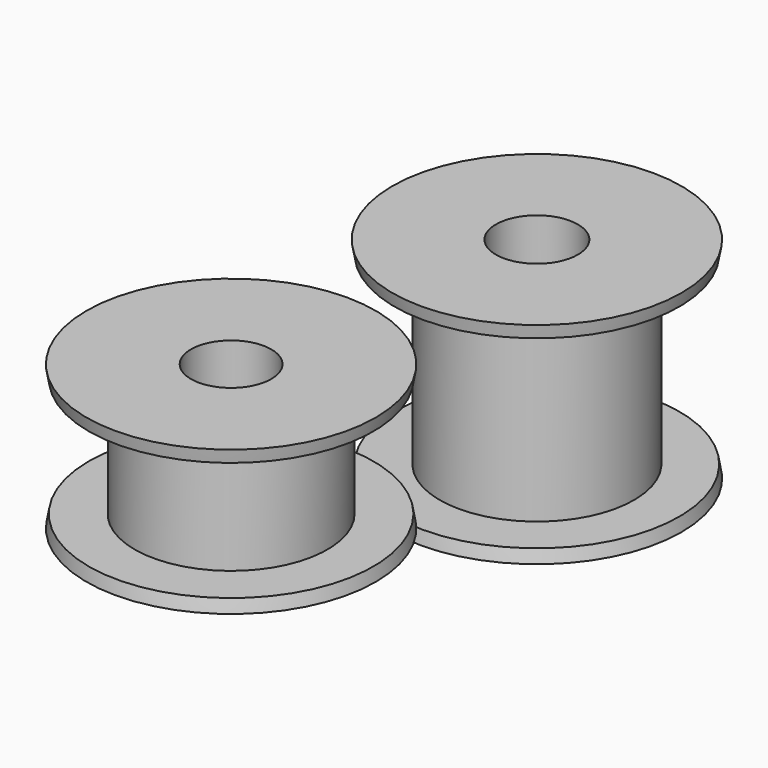
from build123d import *

# Parameters (mm, degrees)
F0_W     = 6
F0_H     = 7.4
F2_R     = 2.5
F3_DEPTH = 9
F4_W     = 6.05
F4_H     = 11.5
F6_R     = 2.55
F7_DEPTH = 13.1


with BuildPart() as f1:
    # F0 (on Front) → F1 (revolve)
    with BuildSketch(Plane.XZ):
        Polygon((0, 11.687311), (-9, 11.687311), (-8.858938, 10.887311), (-6, 10.887311), (0, 10.887311), align=None)
        with Locations((-3, 7.187311)):
            Rectangle(F0_W, F0_H)
        Polygon((0, 2.687311), (0, 3.487311), (-6, 3.487311), (-8.858938, 3.487311), (-9, 2.687311), align=None)
    revolve(axis=Axis((0, 0, 3.487311), (0, 0, 1)))

    # F2 (on face) → F3 (cut, through all)
    with BuildSketch(Plane.XY.offset(11.687311)):
        Circle(F2_R)
    extrude(amount=-F3_DEPTH, mode=Mode.SUBTRACT)


with BuildPart() as f5:
    # F4 (on Right) → F5 (revolve)
    with BuildSketch(Plane.YZ):
        Polygon((23.780716, -4.253333), (23.780716, -3.453333), (17.730716, -3.453333), (14.921778, -3.453333), (14.780716, -4.253333), align=None)
        with Locations((20.755716, 2.296667)):
            Rectangle(F4_W, F4_H)
        Polygon((23.780716, 8.846667), (14.780716, 8.846667), (14.921778, 8.046667), (17.730716, 8.046667), (23.780716, 8.046667), align=None)
    revolve(axis=Axis((0, 23.780716, -3.453333), (0, 0, 1)))

    # F6 (on face) → F7 (cut, through all)
    with BuildSketch(Plane.XY.offset(8.846667)):
        with Locations((0, 23.780716)):
            Circle(F6_R)
    extrude(amount=-F7_DEPTH, mode=Mode.SUBTRACT)


solid = Compound([f1.part, f5.part])
